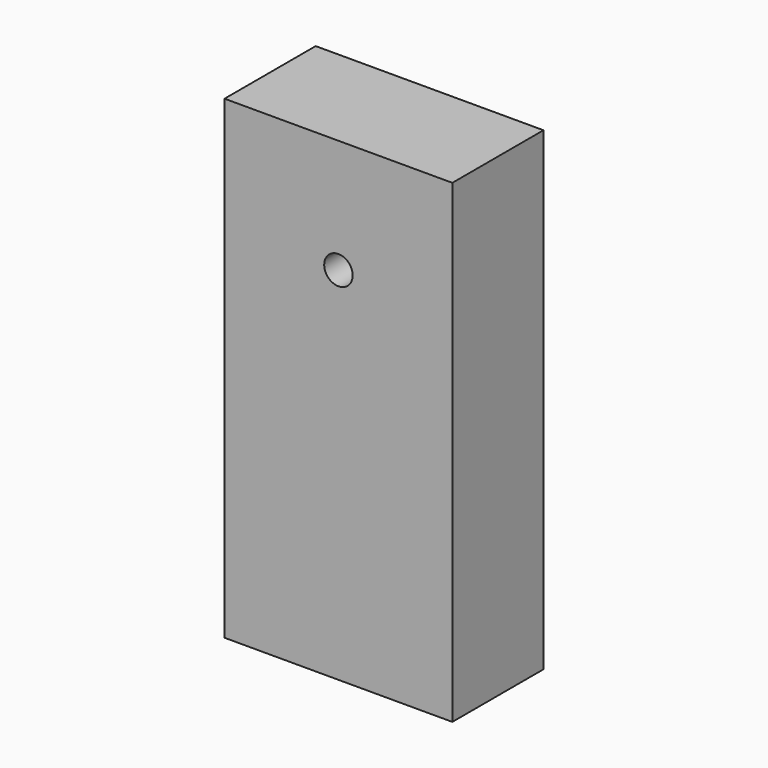
from build123d import *

# Parameters (mm, degrees)
SKETCH066_W             = 48
SKETCH066_H             = 24
PAD038_DEPTH            = 100
SKETCH067_R             = 3
POCKET028_DEPTH         = 24
SKETCH068_R             = 3
POCKET029_DEPTH         = 24.001
BODY044_PLACEMENT_ANGLE = 180


with BuildPart() as part:
    # Sketch066 → Pad038 (new body)
    with BuildSketch(Plane.XY):
        with Locations((24, 12)):
            Rectangle(SKETCH066_W, SKETCH066_H)
    extrude(amount=PAD038_DEPTH)

    # Sketch067 (on Face2 of Pad038) → Pocket028 (cut)
    with BuildSketch(Plane.YZ.offset(48)):
        with Locations((12, 24)):
            Circle(SKETCH067_R)
    extrude(amount=-POCKET028_DEPTH, mode=Mode.SUBTRACT)

    # Sketch068 (on Face1 of Pocket028) → Pocket029 (cut, through all)
    with BuildSketch(Plane.XZ):
        with Locations((24, 76)):
            Circle(SKETCH068_R)
    extrude(amount=-POCKET029_DEPTH, mode=Mode.SUBTRACT)


with BuildPart() as part_1:
    # Body044 placement: moved
    add(part.part.moved(Location((-24, 24, 26))).rotate(Axis((-24, 24, 26), (0, 0, 1)), BODY044_PLACEMENT_ANGLE))


solid = part_1.part
